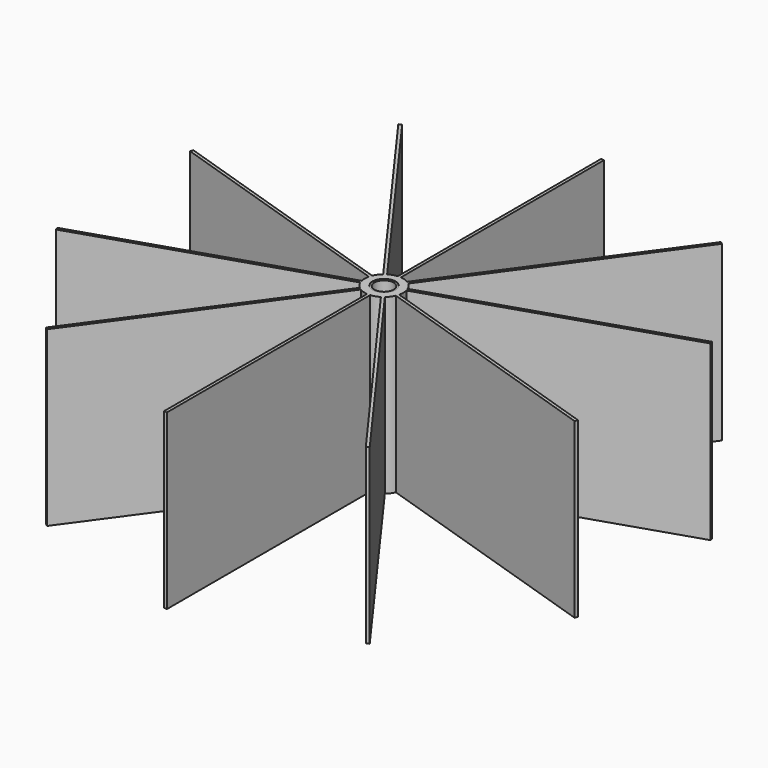
from build123d import *

# Parameters (mm, degrees)
F1_DEPTH = 45
F3_DEPTH = 45
F4_R     = 1.1
F5_DEPTH = 45
F6_R     = 3
F7_DEPTH = 0.1
F8_R     = 2.5
F9_DEPTH = 3


with BuildPart() as f1:
    # F0 (on Top) → F1 (new body)
    with BuildSketch(Plane.XY):
        with BuildLine():
            ThreePointArc((4.8636480497, -1.1597101572), (4.9657950143, -0.5838491892), (5, 0))
            ThreePointArc((5, 0), (4.9657950143, 0.5838491892), (4.8636480497, 1.1597101572))
            Line((4.8636480497, 1.1597101572), (1.294427191, 0))
            Line((1.294427191, 0), (4.8636480497, -1.1597101572))
        make_face()
        with BuildLine():
            Line((1.294427191, 0), (4.8636480497, 1.1597101572))
            ThreePointArc((4.8636480497, 1.1597101572), (4.7552825815, 1.5450849719), (4.6164344542, 1.9205553702))
            Line((4.6164344542, 1.9205553702), (1.0472135955, 0.760845213))
            Line((1.0472135955, 0.760845213), (0.6472135955, 0.2102924448))
            Line((0.6472135955, 0.2102924448), (1.294427191, 0))
        make_face()
        with BuildLine():
            ThreePointArc((4.6164344542, 1.9205553702), (4.7552825815, 1.5450849719), (4.8636480497, 1.1597101572))
            Line((4.8636480497, 1.1597101572), (67.6486194547, 21.5597839941))
            Line((67.6486194547, 21.5597839941), (67.4014058592, 22.3206292071))
            Line((67.4014058592, 22.3206292071), (4.6164344542, 1.9205553702))
        make_face()
        with BuildLine():
            Line((67.6486194547, -21.5597839941), (4.8636480497, -1.1597101572))
            ThreePointArc((4.8636480497, -1.1597101572), (4.7552825815, -1.5450849719), (4.6164344542, -1.9205553702))
            Line((4.6164344542, -1.9205553702), (67.4014058592, -22.3206292071))
            Line((67.4014058592, -22.3206292071), (67.6486194547, -21.5597839941))
        make_face()
        with BuildLine():
            ThreePointArc((4.6164344542, -1.9205553702), (4.7552825815, -1.5450849719), (4.8636480497, -1.1597101572))
            Line((4.8636480497, -1.1597101572), (1.294427191, 0))
            Line((1.294427191, 0), (0.6472135955, -0.2102924448))
            Line((0.6472135955, -0.2102924448), (1.0472135955, -0.760845213))
            Line((1.0472135955, -0.760845213), (4.6164344542, -1.9205553702))
        make_face()
        with BuildLine():
            Line((1.0472135955, 0.760845213), (4.6164344542, 1.9205553702))
            ThreePointArc((4.6164344542, 1.9205553702), (4.0450849719, 2.9389262615), (3.2531133995, 3.7970058217))
            Line((3.2531133995, 3.7970058217), (1.0472135955, 0.760845213))
        make_face()
        with BuildLine():
            ThreePointArc((3.2531133995, -3.7970058217), (4.0450849719, -2.9389262615), (4.6164344542, -1.9205553702))
            Line((4.6164344542, -1.9205553702), (1.0472135955, -0.760845213))
            Line((1.0472135955, -0.760845213), (3.2531133995, -3.7970058217))
        make_face()
        with BuildLine():
            Line((1.0472135955, 0.760845213), (3.2531133995, 3.7970058217))
            ThreePointArc((3.2531133995, 3.7970058217), (2.9389262615, 4.0450849719), (2.605899804, 4.2672340235))
            Line((2.605899804, 4.2672340235), (0.4, 1.2310734149))
            Line((0.4, 1.2310734149), (0.4, 0.5505527682))
            Line((0.4, 0.5505527682), (1.0472135955, 0.760845213))
        make_face()
        with BuildLine():
            ThreePointArc((2.605899804, 4.2672340235), (2.9389262615, 4.0450849719), (3.2531133995, 3.7970058217))
            Line((3.2531133995, 3.7970058217), (42.0563597105, 57.2050924997))
            Line((42.0563597105, 57.2050924997), (41.409146115, 57.6753207015))
            Line((41.409146115, 57.6753207015), (2.605899804, 4.2672340235))
        make_face()
        with BuildLine():
            Line((42.0563597105, -57.2050924997), (3.2531133995, -3.7970058217))
            ThreePointArc((3.2531133995, -3.7970058217), (2.9389262615, -4.0450849719), (2.605899804, -4.2672340235))
            Line((2.605899804, -4.2672340235), (41.409146115, -57.6753207015))
            Line((41.409146115, -57.6753207015), (42.0563597105, -57.2050924997))
        make_face()
        with BuildLine():
            ThreePointArc((2.605899804, -4.2672340235), (2.9389262615, -4.0450849719), (3.2531133995, -3.7970058217))
            Line((3.2531133995, -3.7970058217), (1.0472135955, -0.760845213))
            Line((1.0472135955, -0.760845213), (0.4, -0.5505527682))
            Line((0.4, -0.5505527682), (0.4, -1.2310734149))
            Line((0.4, -1.2310734149), (2.605899804, -4.2672340235))
        make_face()
        with BuildLine():
            Line((0.4, 1.2310734149), (2.605899804, 4.2672340235))
            ThreePointArc((2.605899804, 4.2672340235), (1.5450849719, 4.7552825815), (0.4, 4.9839743178))
            Line((0.4, 4.9839743178), (0.4, 1.2310734149))
        make_face()
        with BuildLine():
            ThreePointArc((0.4, -4.9839743178), (1.5450849719, -4.7552825815), (2.605899804, -4.2672340235))
            Line((2.605899804, -4.2672340235), (0.4, -1.2310734149))
            Line((0.4, -1.2310734149), (0.4, -4.9839743178))
        make_face()
        with BuildLine():
            Line((0.4, 1.2310734149), (0.4, 4.9839743178))
            ThreePointArc((0.4, 4.9839743178), (0, 5), (-0.4, 4.9839743178))
            Line((-0.4, 4.9839743178), (-0.4, 1.2310734149))
            Line((-0.4, 1.2310734149), (0, 0.6805206467))
            Line((0, 0.6805206467), (0.4, 1.2310734149))
        make_face()
        with BuildLine():
            ThreePointArc((-0.4, 4.9839743178), (0, 5), (0.4, 4.9839743178))
            Line((0.4, 4.9839743178), (0.4, 71))
            Line((0.4, 71), (-0.4, 71))
            Line((-0.4, 71), (-0.4, 4.9839743178))
        make_face()
        with BuildLine():
            Line((0.4, -71), (0.4, -4.9839743178))
            ThreePointArc((0.4, -4.9839743178), (0, -5), (-0.4, -4.9839743178))
            Line((-0.4, -4.9839743178), (-0.4, -71))
            Line((-0.4, -71), (0.4, -71))
        make_face()
        with BuildLine():
            ThreePointArc((-0.4, -4.9839743178), (0, -5), (0.4, -4.9839743178))
            Line((0.4, -4.9839743178), (0.4, -1.2310734149))
            Line((0.4, -1.2310734149), (0, -0.6805206467))
            Line((0, -0.6805206467), (-0.4, -1.2310734149))
            Line((-0.4, -1.2310734149), (-0.4, -4.9839743178))
        make_face()
        with BuildLine():
            Line((-0.4, 1.2310734149), (-0.4, 4.9839743178))
            ThreePointArc((-0.4, 4.9839743178), (-1.5450849719, 4.7552825815), (-2.605899804, 4.2672340235))
            Line((-2.605899804, 4.2672340235), (-0.4, 1.2310734149))
        make_face()
        with BuildLine():
            ThreePointArc((-2.605899804, -4.2672340235), (-1.5450849719, -4.7552825815), (-0.4, -4.9839743178))
            Line((-0.4, -4.9839743178), (-0.4, -1.2310734149))
            Line((-0.4, -1.2310734149), (-2.605899804, -4.2672340235))
        make_face()
        with BuildLine():
            Line((-0.4, 1.2310734149), (-2.605899804, 4.2672340235))
            ThreePointArc((-2.605899804, 4.2672340235), (-2.9389262615, 4.0450849719), (-3.2531133995, 3.7970058217))
            Line((-3.2531133995, 3.7970058217), (-1.0472135955, 0.760845213))
            Line((-1.0472135955, 0.760845213), (-0.4, 0.5505527682))
            Line((-0.4, 0.5505527682), (-0.4, 1.2310734149))
        make_face()
        with BuildLine():
            ThreePointArc((-3.2531133995, 3.7970058217), (-2.9389262615, 4.0450849719), (-2.605899804, 4.2672340235))
            Line((-2.605899804, 4.2672340235), (-41.409146115, 57.6753207015))
            Line((-41.409146115, 57.6753207015), (-42.0563597105, 57.2050924997))
            Line((-42.0563597105, 57.2050924997), (-3.2531133995, 3.7970058217))
        make_face()
        with BuildLine():
            Line((-41.409146115, -57.6753207015), (-2.605899804, -4.2672340235))
            ThreePointArc((-2.605899804, -4.2672340235), (-2.9389262615, -4.0450849719), (-3.2531133995, -3.7970058217))
            Line((-3.2531133995, -3.7970058217), (-42.0563597105, -57.2050924997))
            Line((-42.0563597105, -57.2050924997), (-41.409146115, -57.6753207015))
        make_face()
        with BuildLine():
            ThreePointArc((-3.2531133995, -3.7970058217), (-2.9389262615, -4.0450849719), (-2.605899804, -4.2672340235))
            Line((-2.605899804, -4.2672340235), (-0.4, -1.2310734149))
            Line((-0.4, -1.2310734149), (-0.4, -0.5505527682))
            Line((-0.4, -0.5505527682), (-1.0472135955, -0.760845213))
            Line((-1.0472135955, -0.760845213), (-3.2531133995, -3.7970058217))
        make_face()
        with BuildLine():
            Line((-1.0472135955, 0.760845213), (-3.2531133995, 3.7970058217))
            ThreePointArc((-3.2531133995, 3.7970058217), (-4.0450849719, 2.9389262615), (-4.6164344542, 1.9205553702))
            Line((-4.6164344542, 1.9205553702), (-1.0472135955, 0.760845213))
        make_face()
        with BuildLine():
            ThreePointArc((-4.6164344542, -1.9205553702), (-4.0450849719, -2.9389262615), (-3.2531133995, -3.7970058217))
            Line((-3.2531133995, -3.7970058217), (-1.0472135955, -0.760845213))
            Line((-1.0472135955, -0.760845213), (-4.6164344542, -1.9205553702))
        make_face()
        with BuildLine():
            Line((-1.0472135955, 0.760845213), (-4.6164344542, 1.9205553702))
            ThreePointArc((-4.6164344542, 1.9205553702), (-4.7552825815, 1.5450849719), (-4.8636480497, 1.1597101572))
            Line((-4.8636480497, 1.1597101572), (-1.294427191, 0))
            Line((-1.294427191, 0), (-0.6472135955, 0.2102924448))
            Line((-0.6472135955, 0.2102924448), (-1.0472135955, 0.760845213))
        make_face()
        with BuildLine():
            ThreePointArc((-4.8636480497, 1.1597101572), (-4.7552825815, 1.5450849719), (-4.6164344542, 1.9205553702))
            Line((-4.6164344542, 1.9205553702), (-67.4014058592, 22.3206292071))
            Line((-67.4014058592, 22.3206292071), (-67.6486194547, 21.5597839941))
            Line((-67.6486194547, 21.5597839941), (-4.8636480497, 1.1597101572))
        make_face()
        with BuildLine():
            Line((-67.4014058592, -22.3206292071), (-4.6164344542, -1.9205553702))
            ThreePointArc((-4.6164344542, -1.9205553702), (-4.7552825815, -1.5450849719), (-4.8636480497, -1.1597101572))
            Line((-4.8636480497, -1.1597101572), (-67.6486194547, -21.5597839941))
            Line((-67.6486194547, -21.5597839941), (-67.4014058592, -22.3206292071))
        make_face()
        with BuildLine():
            ThreePointArc((-4.8636480497, -1.1597101572), (-4.7552825815, -1.5450849719), (-4.6164344542, -1.9205553702))
            Line((-4.6164344542, -1.9205553702), (-1.0472135955, -0.760845213))
            Line((-1.0472135955, -0.760845213), (-0.6472135955, -0.2102924448))
            Line((-0.6472135955, -0.2102924448), (-1.294427191, 0))
            Line((-1.294427191, 0), (-4.8636480497, -1.1597101572))
        make_face()
        with BuildLine():
            Line((-1.294427191, 0), (-4.8636480497, 1.1597101572))
            ThreePointArc((-4.8636480497, 1.1597101572), (-5, 0), (-4.8636480497, -1.1597101572))
            Line((-4.8636480497, -1.1597101572), (-1.294427191, 0))
        make_face()
    extrude(amount=F1_DEPTH)

    # F2 (on face) → F3 (join)
    with BuildSketch(Plane(origin=(0, 0, 0), x_dir=(1, 0, 0), z_dir=(0, 0, -1))):
        Polygon((0.4, 1.2310734149), (0, 0.6805206467), (-0.4, 1.2310734149), (-0.4, 0.5505527682), (-1.0472135955, 0.760845213), (-0.6472135955, 0.2102924448), (-1.294427191, 0), (-0.6472135955, -0.2102924448), (-1.0472135955, -0.760845213), (-0.4, -0.5505527682), (-0.4, -1.2310734149), (0, -0.6805206467), (0.4, -1.2310734149), (0.4, -0.5505527682), (1.0472135955, -0.760845213), (0.6472135955, -0.2102924448), (1.294427191, 0), (0.6472135955, 0.2102924448), (1.0472135955, 0.760845213), (0.4, 0.5505527682), align=None)
    extrude(amount=-F3_DEPTH)

    # F4 (on face) → F5 (cut, through all)
    with BuildSketch(Plane.XY.offset(45)):
        Circle(F4_R)
    extrude(amount=-F5_DEPTH, mode=Mode.SUBTRACT)

    # F6 (on face) → F7 (cut)
    with BuildSketch(Plane.XY.offset(45)):
        Circle(F6_R)
    extrude(amount=-F7_DEPTH, mode=Mode.SUBTRACT)

    # F8 (on face) → F9 (cut)
    with BuildSketch(Plane.XY.offset(44.9)):
        Circle(F8_R)
    extrude(amount=-F9_DEPTH, mode=Mode.SUBTRACT)


solid = f1.part
